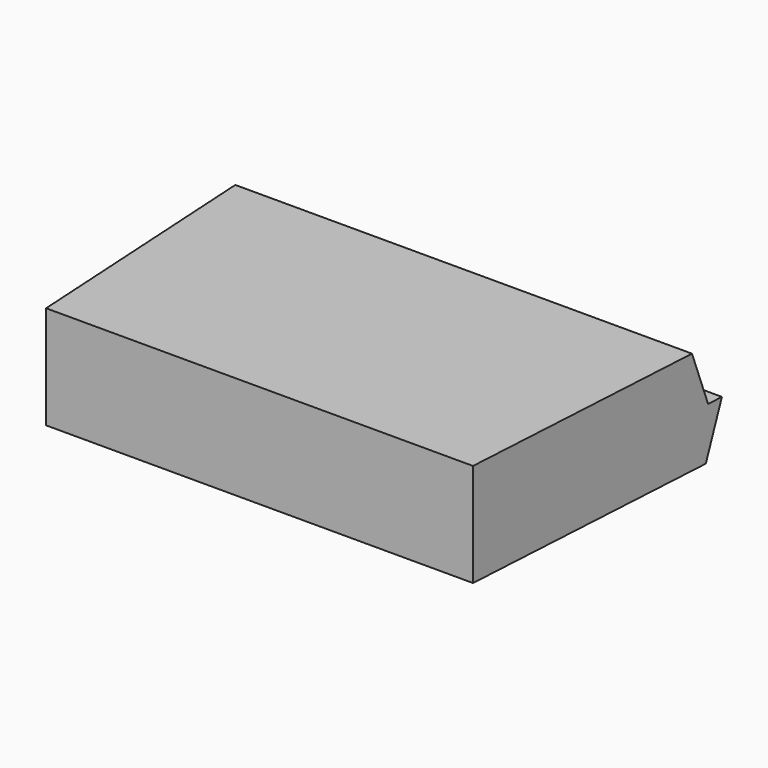
from build123d import *

# Parameters (mm, degrees)
F1_DEPTH      = 14.3
F1_DEPTH_BACK = 14.3
F3_DEPTH      = 25
F3_DEPTH_BACK = 25


with BuildPart() as f1:
    # F0 (on Right) → F1 (new body, two sides)
    with BuildSketch(Plane.YZ) as f1_sk:
        Polygon((-2.164705, 3.2), (-18, 3.2), (-18, -3.2), (-1.164705, -3.2), (0, 0), (-1, 0), align=None)
    extrude(amount=F1_DEPTH)
    extrude(f1_sk.sketch, amount=-F1_DEPTH_BACK)

    # F2 (on Top) → F3 (cut, two sides)
    with BuildSketch(Plane.XY) as f3_sk:
        Polygon((-13.25, -18), (-14.3, 0), (-17.080702, 0), (-17.080702, -21.785066), (17.080702, -21.785066), (17.080702, 0), (14.3, 0), (13.25, -18), align=None)
    extrude(amount=F3_DEPTH, mode=Mode.SUBTRACT)
    extrude(f3_sk.sketch, amount=-F3_DEPTH_BACK, mode=Mode.SUBTRACT)


solid = f1.part
